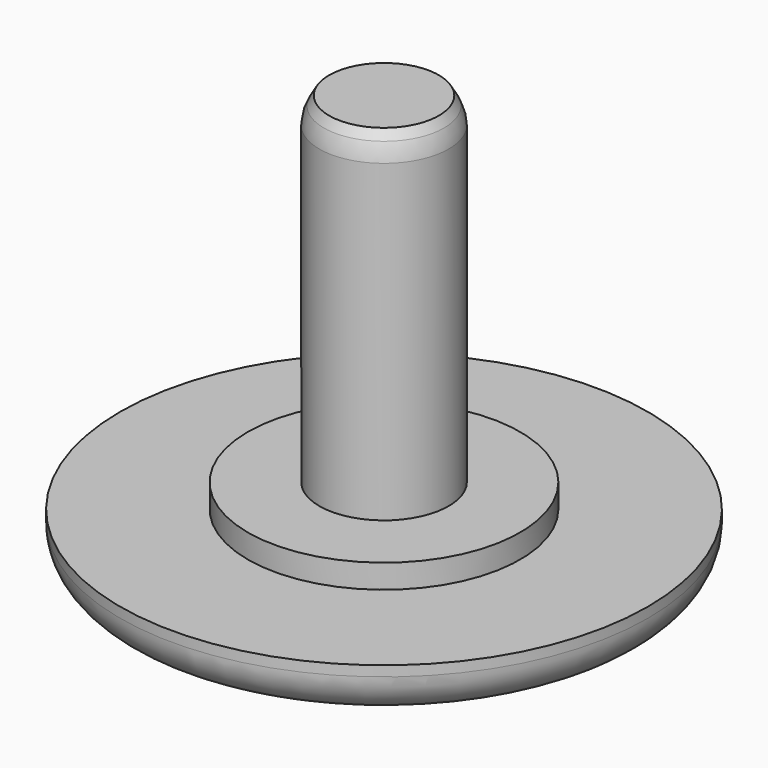
from build123d import *

# Parameters (mm, degrees)
F2_R     = 1.2
F3_SIZE2 = 0.2886751346
F3_SIZE  = 0.5
F4_R     = 1


with BuildPart() as f1:
    # F0 (on Front) → F1 (revolve)
    with BuildSketch(Plane.XZ):
        Polygon((-7.75, 0), (0, 0), (0, 12.2), (-1.9, 12.2), (-1.9, 2.2), (-4, 2.2), (-4, 1.5), (-7.75, 1.5), align=None)
    revolve(axis=Axis((0, 0, 5.0761818423), (0, 0, 1)))

    # F2
    f2_edges = [f1.edges().sort_by_distance(p)[0] for p in [
        (7.75, 0, 0),
    ]]
    fillet(f2_edges, radius=F2_R)

    # F3
    f3_edges = [f1.edges().sort_by_distance(p)[0] for p in [
        (1.9, 0, 12.2),
    ]]
    chamfer(f3_edges, length=F3_SIZE, length2=F3_SIZE2)

    # F4
    f4_edges = [f1.edges().sort_by_distance(p)[0] for p in [
        (1.9, 0, 11.7),
    ]]
    fillet(f4_edges, radius=F4_R)


solid = f1.part
